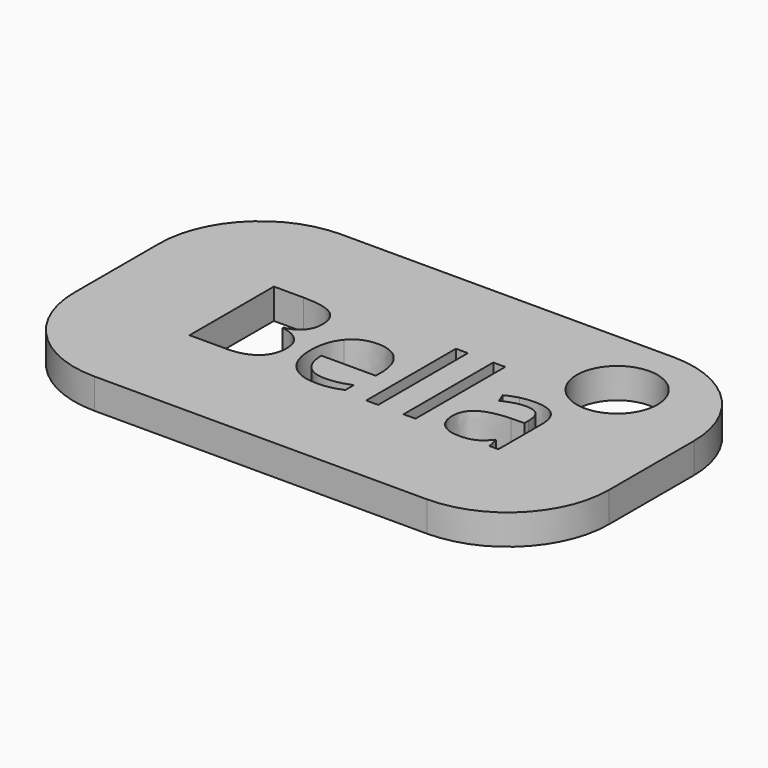
from build123d import *

# Parameters (mm, degrees)
F0_W     = 1.1863263941
F0_H     = 11.1158097386
F0_R     = 4
F1_DEPTH = 3


with BuildPart() as f1:
    # F0 (on Top) → F1 (new body)
    with BuildSketch(Plane.XY):
        with BuildLine():
            ThreePointArc((26.4942798836, 5.2664663043), (23.5653476954, 12.3375341161), (16.4942798836, 15.2664663043))
            Line((16.4942798836, 15.2664663043), (-16.4942798836, 15.2664663043))
            ThreePointArc((-16.4942798836, 15.2664663043), (-23.5653476954, 12.3375341161), (-26.4942798836, 5.2664663043))
            Line((-26.4942798836, 5.2664663043), (-26.4942798836, -5.2664663043))
            ThreePointArc((-26.4942798836, -5.2664663043), (-23.5653476954, -12.3375341161), (-16.4942798836, -15.2664663043))
            Line((-16.4942798836, -15.2664663043), (16.4942798836, -15.2664663043))
            ThreePointArc((16.4942798836, -15.2664663043), (23.5653476954, -12.3375341161), (26.4942798836, -5.2664663043))
            Line((26.4942798836, -5.2664663043), (26.4942798836, 5.2664663043))
        make_face()
        with BuildLine():
            Line((-15.0588020888, -5.2664663043), (-15.0588020888, 5.1773203903))
            Line((-15.0588020888, 5.1773203903), (-12.107843756, 5.1773203903))
            add(Edge.make_bspline(
                [(-12.107843756, 5.1773203903), (-10.0300582219, 5.1773203903), (-9.1008835028, 4.5555847849)],
                knots=[0, 0, 0, 1, 1, 1], degree=2))
            add(Edge.make_bspline(
                [(-9.1008835028, 4.5555847849), (-8.1717087838, 3.9338491795), (-8.1717087838, 2.5920888841)],
                knots=[0, 0, 0, 1, 1, 1], degree=2))
            add(Edge.make_bspline(
                [(-8.1717087838, 2.5920888841), (-8.1717087838, 1.6617712688), (-8.6894408228, 1.0583220047)],
                knots=[0, 0, 0, 1, 1, 1], degree=2))
            add(Edge.make_bspline(
                [(-8.6894408228, 1.0583220047), (-9.2071728618, 0.4548727407), (-10.2014926719, 0.2765809127)],
                knots=[0, 0, 0, 1, 1, 1], degree=2))
            Line((-10.2014926719, 0.2765809127), (-10.2014926719, 0.20572134))
            add(Edge.make_bspline(
                [(-10.2014926719, 0.20572134), (-7.8219825058, -0.2011497547), (-7.8219825058, -2.2949358375)],
                knots=[0, 0, 0, 1, 1, 1], degree=2))
            add(Edge.make_bspline(
                [(-7.8219825058, -2.2949358375), (-7.8219825058, -3.6938409495), (-8.7683006698, -4.4801536269)],
                knots=[0, 0, 0, 1, 1, 1], degree=2))
            add(Edge.make_bspline(
                [(-8.7683006698, -4.4801536269), (-9.7146188339, -5.2664663043), (-11.4152485779, -5.2664663043)],
                knots=[0, 0, 0, 1, 1, 1], degree=2))
            Line((-11.4152485779, -5.2664663043), (-15.0588020888, -5.2664663043))
        make_face(mode=Mode.SUBTRACT)
        with BuildLine():
            add(Edge.make_bspline(
                [(-1.0971804801, -5.2916100236), (-1.6571996834, -5.4104712423), (-2.4503697388, -5.4104712423)],
                knots=[0, 0, 0, 1, 1, 1], degree=2))
            add(Edge.make_bspline(
                [(-2.4503697388, -5.4104712423), (-4.1852863729, -5.4104712423), (-5.1898922499, -4.3521492376)],
                knots=[0, 0, 0, 1, 1, 1], degree=2))
            add(Edge.make_bspline(
                [(-5.1898922499, -4.3521492376), (-6.194498127, -3.2938272328), (-6.194498127, -1.4171914534)],
                knots=[0, 0, 0, 1, 1, 1], degree=2))
            add(Edge.make_bspline(
                [(-6.194498127, -1.4171914534), (-6.194498127, 0.4777306674), (-5.261894719, 1.5920545924)],
                knots=[0, 0, 0, 1, 1, 1], degree=2))
            add(Edge.make_bspline(
                [(-5.261894719, 1.5920545924), (-4.3292913109, 2.7063785175), (-2.7566659561, 2.7063785175)],
                knots=[0, 0, 0, 1, 1, 1], degree=2))
            add(Edge.make_bspline(
                [(-2.7566659561, 2.7063785175), (-1.2869012714, 2.7063785175), (-0.4297290214, 1.7383453231)],
                knots=[0, 0, 0, 1, 1, 1], degree=2))
            add(Edge.make_bspline(
                [(-0.4297290214, 1.7383453231), (0.4274432287, 0.7703121287), (0.4274432287, -0.816027982)],
                knots=[0, 0, 0, 1, 1, 1], degree=2))
            Line((0.4274432287, -0.816027982), (0.4274432287, -1.5657679768))
            Line((0.4274432287, -1.5657679768), (-4.9647416723, -1.5657679768))
            add(Edge.make_bspline(
                [(-4.9647416723, -1.5657679768), (-4.9281689896, -2.9441009548), (-4.2675749089, -3.6584111632)],
                knots=[0, 0, 0, 1, 1, 1], degree=2))
            add(Edge.make_bspline(
                [(-4.2675749089, -3.6584111632), (-3.6069808282, -4.3727213716), (-2.4069396781, -4.3727213716)],
                knots=[0, 0, 0, 1, 1, 1], degree=2))
            add(Edge.make_bspline(
                [(-2.4069396781, -4.3727213716), (-1.1428963334, -4.3727213716), (0.0914317067, -3.8447032655)],
                knots=[0, 0, 0, 1, 1, 1], degree=2))
            Line((0.0914317067, -3.8447032655), (0.0914317067, -4.9030252703))
            add(Edge.make_bspline(
                [(0.0914317067, -4.9030252703), (-0.5371612767, -5.1727488049), (-1.0971804801, -5.2916100236)],
                knots=[0, 0, 0, 1, 1, 1], degree=2))
        make_face(mode=Mode.SUBTRACT)
        with BuildLine():
            Line((15.5456759268, -5.2664663043), (14.6656457501, -5.2664663043))
            Line((14.6656457501, -5.2664663043), (14.4302091054, -4.1509994829))
            Line((14.4302091054, -4.1509994829), (14.3730642888, -4.1509994829))
            add(Edge.make_bspline(
                [(14.3730642888, -4.1509994829), (13.7879013661, -4.8870247216), (13.2061671324, -5.1487479819)],
                knots=[0, 0, 0, 1, 1, 1], degree=2))
            add(Edge.make_bspline(
                [(13.2061671324, -5.1487479819), (12.6244328987, -5.4104712423), (11.7512601, -5.4104712423)],
                knots=[0, 0, 0, 1, 1, 1], degree=2))
            add(Edge.make_bspline(
                [(11.7512601, -5.4104712423), (10.5877916326, -5.4104712423), (9.9271975519, -4.8093077709)],
                knots=[0, 0, 0, 1, 1, 1], degree=2))
            add(Edge.make_bspline(
                [(9.9271975519, -4.8093077709), (9.2666034712, -4.2081442996), (9.2666034712, -3.1018206488)],
                knots=[0, 0, 0, 1, 1, 1], degree=2))
            add(Edge.make_bspline(
                [(9.2666034712, -3.1018206488), (9.2666034712, -0.7314536534), (13.0587335054, -0.61716402)],
                knots=[0, 0, 0, 1, 1, 1], degree=2))
            Line((13.0587335054, -0.61716402), (14.3867790448, -0.5737339594))
            Line((14.3867790448, -0.5737339594), (14.3867790448, -0.0868601213))
            add(Edge.make_bspline(
                [(14.3867790448, -0.0868601213), (14.3867790448, 0.8343143234), (13.9913369134, 1.2731865154)],
                knots=[0, 0, 0, 1, 1, 1], degree=2))
            add(Edge.make_bspline(
                [(13.9913369134, 1.2731865154), (13.5958947821, 1.7120587074), (12.7227219834, 1.7120587074)],
                knots=[0, 0, 0, 1, 1, 1], degree=2))
            add(Edge.make_bspline(
                [(12.7227219834, 1.7120587074), (11.744402722, 1.7120587074), (10.5100746819, 1.1131810287)],
                knots=[0, 0, 0, 1, 1, 1], degree=2))
            Line((10.5100746819, 1.1131810287), (10.1443478552, 2.0206407174))
            add(Edge.make_bspline(
                [(10.1443478552, 2.0206407174), (10.7226533999, 2.3337943128), (11.4118198889, 2.5120861408)],
                knots=[0, 0, 0, 1, 1, 1], degree=2))
            add(Edge.make_bspline(
                [(11.4118198889, 2.5120861408), (12.100986378, 2.6903779688), (12.7958673487, 2.6903779688)],
                knots=[0, 0, 0, 1, 1, 1], degree=2))
            add(Edge.make_bspline(
                [(12.7958673487, 2.6903779688), (14.1947724608, 2.6903779688), (14.8702241938, 2.0697852598)],
                knots=[0, 0, 0, 1, 1, 1], degree=2))
            add(Edge.make_bspline(
                [(14.8702241938, 2.0697852598), (15.5456759268, 1.4491925507), (15.5456759268, 0.0777169507)],
                knots=[0, 0, 0, 1, 1, 1], degree=2))
            Line((15.5456759268, 0.0777169507), (15.5456759268, -5.2664663043))
        make_face(mode=Mode.SUBTRACT)
        with Locations((3.0435329358, 0.291438565)):
            Rectangle(F0_W, F0_H, mode=Mode.SUBTRACT)
        with Locations((6.7442312634, 0.291438565)):
            Rectangle(F0_W, F0_H, mode=Mode.SUBTRACT)
        with Locations((16.4942798836, 8.2664663043)):
            Circle(F0_R, mode=Mode.SUBTRACT)
    extrude(amount=F1_DEPTH)


solid = f1.part
